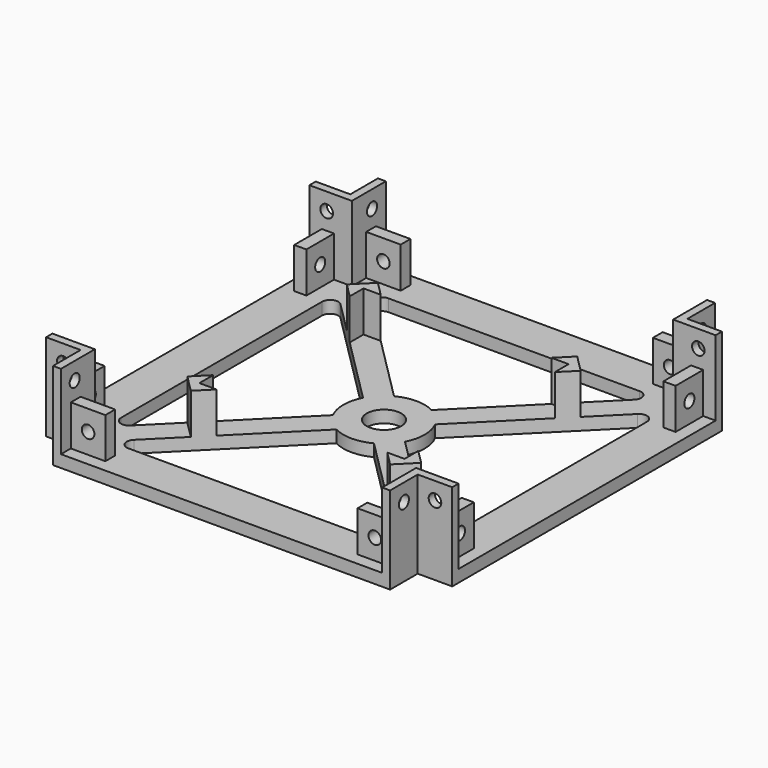
from build123d import *

# Parameters (mm, degrees)
F1_R      = 4.25
F2_DEPTH  = 3
F4_DEPTH  = 10
F8_DEPTH  = 3.001
F10_DEPTH = 8.5
F11_R     = 1.55
F12_DEPTH = 91.501
F13_R     = 1.55
F14_DEPTH = 91.501
F15_R     = 1.55
F16_DEPTH = 96.951
F17_R     = 1.55
F18_DEPTH = 96.951
F20_DEPTH = 10


with BuildPart() as f2:
    # F1 (on Top) → F2 (new body)
    with BuildSketch(Plane.XY):
        Polygon((41.5, 41.5), (41.5, 50), (-41.5, 50), (-41.5, 41.5), (-50, 41.5), (-50, -41.5), (-41.5, -41.5), (-41.5, -50), (41.5, -50), (41.5, -41.5), (50, -41.5), (50, 41.5), align=None)
        Circle(F1_R, mode=Mode.SUBTRACT)
    extrude(amount=F2_DEPTH)

    # F3 (on face) → F4 (join)
    with BuildSketch(Plane.XY.offset(3)):
        Polygon((31.05, 43.95), (39.55, 43.95), (39.55, 39.55), (43.95, 39.55), (43.95, 31.05), (46.95, 31.05), (46.95, 39.55), (50, 39.55), (50, 41.5), (41.5, 41.5), (41.5, 50), (39.55, 50), (39.55, 46.95), (31.05, 46.95), align=None)
    extrude(amount=F4_DEPTH)

    # F5: F2 across plane


with BuildPart() as f2_1:
    add(f2.part)
    add(f2.part.mirror(Plane.YZ))

    # F6: F2 across plane


with BuildPart() as f2_2:
    add(f2_1.part)
    add(f2_1.part.mirror(Plane.XZ))

    # F7 (on face) → F8 (cut, through all)
    with BuildSketch(Plane.XY.offset(3)):
        with BuildLine():
            ThreePointArc((-36.5857864376, 32.3431457505), (-38.7653668647, 32.7766912532), (-40, 30.9289321881))
            Line((-40, 30.9289321881), (-40, -30.9289321881))
            ThreePointArc((-40, -30.9289321881), (-38.7653668647, -32.7766912532), (-36.5857864376, -32.3431457505))
            Line((-36.5857864376, -32.3431457505), (-8.8666891252, -4.6240484381))
            ThreePointArc((-8.8666891252, -4.6240484381), (-10, 0), (-8.8666891252, 4.6240484381))
            Line((-8.8666891252, 4.6240484381), (-36.5857864376, 32.3431457505))
        make_face()
        with BuildLine():
            Line((30.9289321881, 40), (-30.9289321881, 40))
            ThreePointArc((-30.9289321881, 40), (-32.7766912532, 38.7653668647), (-32.3431457505, 36.5857864376))
            Line((-32.3431457505, 36.5857864376), (-4.6240484381, 8.8666891252))
            ThreePointArc((-4.6240484381, 8.8666891252), (0, 10), (4.6240484381, 8.8666891252))
            Line((4.6240484381, 8.8666891252), (32.3431457505, 36.5857864376))
            ThreePointArc((32.3431457505, 36.5857864376), (32.7766912532, 38.7653668647), (30.9289321881, 40))
        make_face()
        with BuildLine():
            Line((40, -30.9289321881), (40, 30.9289321881))
            ThreePointArc((40, 30.9289321881), (38.7653668647, 32.7766912532), (36.5857864376, 32.3431457505))
            Line((36.5857864376, 32.3431457505), (8.8666891252, 4.6240484381))
            ThreePointArc((8.8666891252, 4.6240484381), (10, 0), (8.8666891252, -4.6240484381))
            Line((8.8666891252, -4.6240484381), (36.5857864376, -32.3431457505))
            ThreePointArc((36.5857864376, -32.3431457505), (38.7653668647, -32.7766912532), (40, -30.9289321881))
        make_face()
        with BuildLine():
            ThreePointArc((-32.3431457505, -36.5857864376), (-32.7766912532, -38.7653668647), (-30.9289321881, -40))
            Line((-30.9289321881, -40), (30.9289321881, -40))
            ThreePointArc((30.9289321881, -40), (32.7766912532, -38.7653668647), (32.3431457505, -36.5857864376))
            Line((32.3431457505, -36.5857864376), (4.6240484381, -8.8666891252))
            ThreePointArc((4.6240484381, -8.8666891252), (0, -10), (-4.6240484381, -8.8666891252))
            Line((-4.6240484381, -8.8666891252), (-32.3431457505, -36.5857864376))
        make_face()
    extrude(amount=-F8_DEPTH, mode=Mode.SUBTRACT)

    # F9 (on face) → F10 (join)
    with BuildSketch(Plane.XY.offset(13)):
        Polygon((41.5, 50), (39.55, 50), (39.55, 39.55), (50, 39.55), (50, 41.5), (41.5, 41.5), align=None)
        Polygon((-41.5, 41.5), (-50, 41.5), (-50, 39.55), (-39.55, 39.55), (-39.55, 50), (-41.5, 50), align=None)
        Polygon((39.55, -39.55), (39.55, -50), (41.5, -50), (41.5, -41.5), (50, -41.5), (50, -39.55), align=None)
        Polygon((-41.5, -50), (-39.55, -50), (-39.55, -39.55), (-50, -39.55), (-50, -41.5), (-41.5, -41.5), align=None)
    extrude(amount=F10_DEPTH)

    # F11 (on face) → F12 (cut, through all)
    with BuildSketch(Plane(origin=(-41.5, 0, 0), x_dir=(0, -1, 0), z_dir=(-1, 0, 0))):
        with Locations((45.75, 17.25)):
            Circle(F11_R)
        with Locations((-45.75, 17.25)):
            Circle(F11_R)
    extrude(amount=-F12_DEPTH, mode=Mode.SUBTRACT)

    # F13 (on face) → F14 (cut, through all)
    with BuildSketch(Plane(origin=(0, 41.5, 0), x_dir=(-1, 0, 0), z_dir=(0, 1, 0))):
        with Locations((45.75, 17.25)):
            Circle(F13_R)
        with Locations((-45.75, 17.25)):
            Circle(F13_R)
    extrude(amount=-F14_DEPTH, mode=Mode.SUBTRACT)

    # F15 (on face) → F16 (cut, through all)
    with BuildSketch(Plane(origin=(-46.95, 0, 0), x_dir=(0, -1, 0), z_dir=(-1, 0, 0))):
        with Locations((-35.3, 8)):
            Circle(F15_R)
        with Locations((35.3, 8)):
            Circle(F15_R)
    extrude(amount=-F16_DEPTH, mode=Mode.SUBTRACT)

    # F17 (on face) → F18 (cut, through all)
    with BuildSketch(Plane(origin=(0, 46.95, 0), x_dir=(-1, 0, 0), z_dir=(0, 1, 0))):
        with Locations((-35.3, 8)):
            Circle(F17_R)
        with Locations((35.3, 8)):
            Circle(F17_R)
    extrude(amount=-F18_DEPTH, mode=Mode.SUBTRACT)

    # F19 (on face) → F20 (join)
    with BuildSketch(Plane.XY.offset(3)):
        Polygon((21.0073593129, 25.25), (25.25, 25.25), (25.25, 21.0073593129), (28.7855339059, 24.5428932188), (24.5428932188, 28.7855339059), align=None)
        Polygon((-25.25, 21.0073593129), (-25.25, 25.25), (-21.0073593129, 25.25), (-24.5428932188, 28.7855339059), (-28.7855339059, 24.5428932188), align=None)
        Polygon((-21.0073593129, -25.25), (-25.25, -25.25), (-25.25, -21.0073593129), (-28.7855339059, -24.5428932188), (-24.5428932188, -28.7855339059), align=None)
        Polygon((25.25, -21.0073593129), (25.25, -25.25), (21.0073593129, -25.25), (24.5428932188, -28.7855339059), (28.7855339059, -24.5428932188), align=None)
    extrude(amount=F20_DEPTH)


solid = f2_2.part
